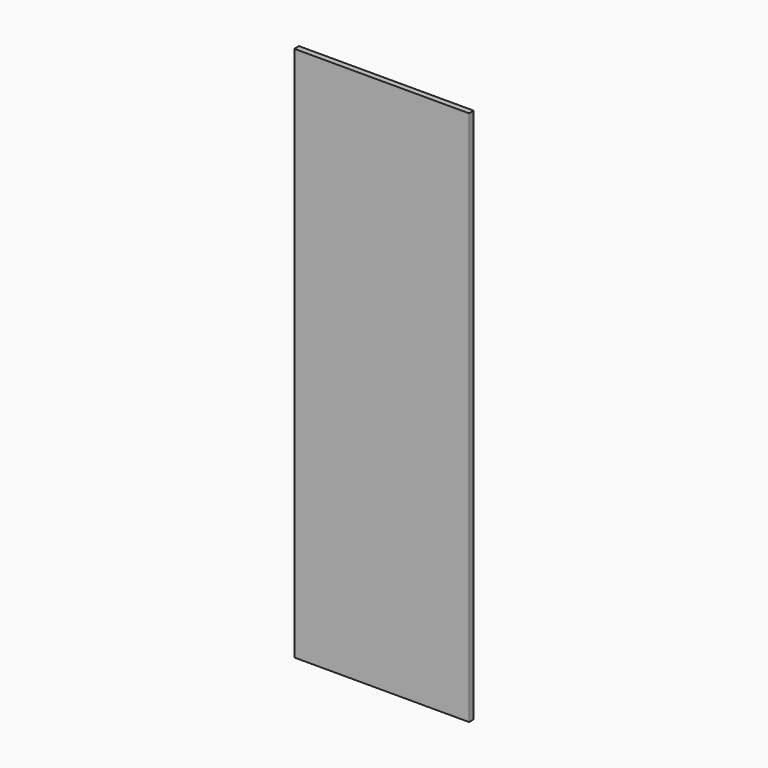
from build123d import *

# Parameters (mm, degrees)
F0_W     = 600
F0_H     = 1840
F1_DEPTH = 20
F2_R     = 2


with BuildPart() as f1:
    # F0 (on Front) → F1 (new body)
    with BuildSketch(Plane.XZ):
        with Locations((300, 915.519788)):
            Rectangle(F0_W, F0_H)
        with Locations((300, 915.519788)):
            Rectangle(F0_W, F0_H)
    extrude(amount=F1_DEPTH)

    # F2
    f2_edges = [f1.edges().sort_by_distance(p)[0] for p in [
        (600, -20, 915.519788),
    ]]
    fillet(f2_edges, radius=F2_R)


solid = f1.part
